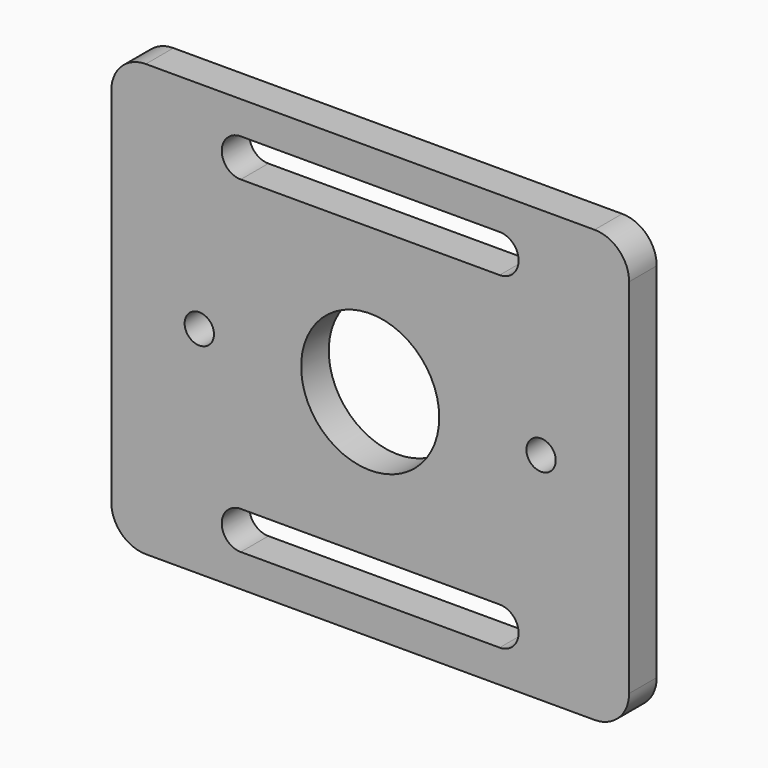
from build123d import *

# Parameters (mm, degrees)
F0_W     = 150
F0_H     = 125
F0_R     = 20
F1_DEPTH = 5
F2_R     = 10
F4_D     = 8.5
F4_DEPTH = 24.5
F4_TIP   = 2.5536576309
F6_DEPTH = 10.001


with BuildPart() as f1:
    # F0 (on Front) → F1 (new body, symmetric)
    with BuildSketch(Plane.XZ):
        Rectangle(F0_W, F0_H)
        Circle(F0_R, mode=Mode.SUBTRACT)
    extrude(amount=F1_DEPTH, both=True)

    # F2
    f2_edges = [f1.edges().sort_by_distance(p)[0] for p in [
        (-75, 0, 62.5),
        (75, 0, 62.5),
        (75, 0, -62.5),
        (-75, 0, -62.5),
    ]]
    fillet(f2_edges, radius=F2_R)

    # F4
    with Locations(Plane.XZ.offset(5)):
        with Locations((-49.5, 0), (49.5, 0)):
            Hole(F4_D / 2, depth=F4_DEPTH)
            with Locations((0, 0, -(F4_DEPTH + F4_TIP / 2))):  # 118° drill point
                Cone(0, F4_D / 2, F4_TIP, mode=Mode.SUBTRACT)

    # F5 (on face) → F6 (cut, through all)
    with BuildSketch(Plane.XZ.offset(5)):
        with BuildLine():
            ThreePointArc((-37.5, 53), (-43, 47.5), (-37.5, 42))
            Line((-37.5, 42), (37.5, 42))
            ThreePointArc((37.5, 42), (43, 47.5), (37.5, 53))
            Line((37.5, 53), (-37.5, 53))
        make_face()
        with BuildLine():
            ThreePointArc((37.5, -53), (43, -47.5), (37.5, -42))
            Line((37.5, -42), (-37.5, -42))
            ThreePointArc((-37.5, -42), (-43, -47.5), (-37.5, -53))
            Line((-37.5, -53), (37.5, -53))
        make_face()
    extrude(amount=-F6_DEPTH, mode=Mode.SUBTRACT)


solid = f1.part
